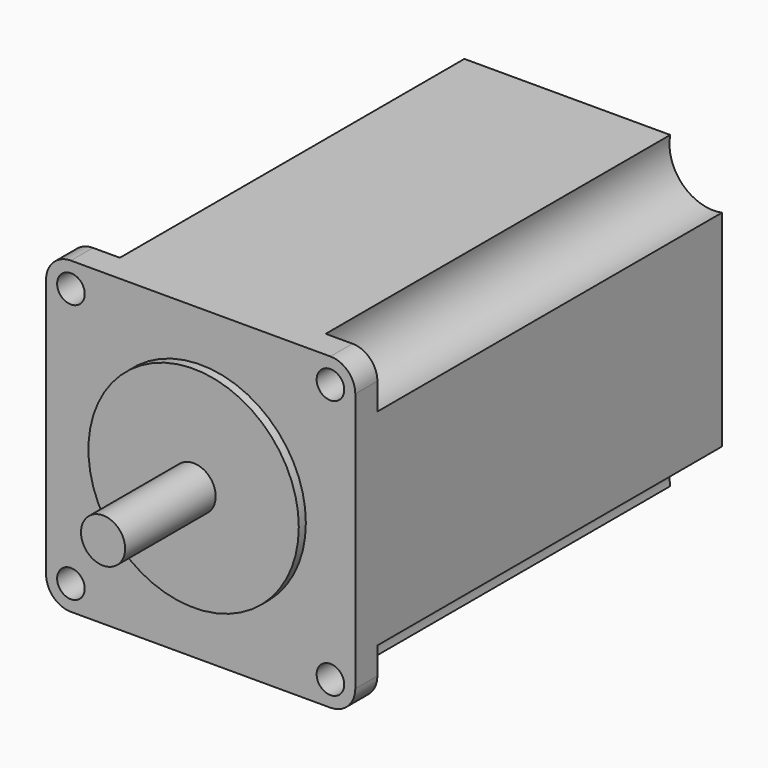
from build123d import *

# Parameters (mm, degrees)
SKETCH_R     = 2.5
PAD_DEPTH    = 5
SKETCH001_R  = 19.05
PAD001_DEPTH = 1.6
SKETCH002_R  = 4
PAD002_DEPTH = 20.5
PAD003_DEPTH = 78


with BuildPart() as part:
    # Sketch → Pad (new body)
    with BuildSketch(Plane.XZ):
        with BuildLine():
            Line((-28, 23.499995), (-28, -23.499995))
            ThreePointArc((-28, -23.499995), (-26.681977, -26.681984), (-23.499985, -28))
            Line((-23.499985, -28), (23.500005, -28))
            ThreePointArc((23.500005, -28), (26.681984, -26.681977), (28, -23.499995))
            Line((28, 23.499995), (28, -23.499995))
            ThreePointArc((28, 23.499995), (26.681981, 26.681981), (23.499995, 28))
            Line((-23.499995, 28), (23.499995, 28))
            ThreePointArc((-23.499995, 28), (-26.681981, 26.681981), (-28, 23.499995))
        make_face()
        with Locations((-23.5, 23.5)):
            Circle(SKETCH_R, mode=Mode.SUBTRACT)
        with Locations((23.5, 23.5)):
            Circle(SKETCH_R, mode=Mode.SUBTRACT)
        with Locations((-23.5, -23.5)):
            Circle(SKETCH_R, mode=Mode.SUBTRACT)
        with Locations((23.5, -23.5)):
            Circle(SKETCH_R, mode=Mode.SUBTRACT)
    extrude(amount=PAD_DEPTH)

    # Sketch001 (on Face14 of Pad) → Pad001 (join)
    with BuildSketch(Plane.XZ.offset(5)):
        Circle(SKETCH001_R)
    extrude(amount=PAD001_DEPTH)

    # Sketch002 (on Face16 of Pad001) → Pad002 (join)
    with BuildSketch(Plane.XZ.offset(6.6)):
        Circle(SKETCH002_R)
    extrude(amount=PAD002_DEPTH)

    # Sketch003 (on Face4 of Pad002) → Pad003 (join)
    with BuildSketch(Plane(origin=(0, 0, 0), x_dir=(1, 0, 0), z_dir=(0, 1, 0))):
        with BuildLine():
            Line((-18.641883, 28), (18.641883, 28))
            ThreePointArc((18.641883, 28), (20.843146, 20.843146), (28, 18.641883))
            Line((28, 18.641883), (28, -18.641883))
            ThreePointArc((28, -18.641883), (20.843146, -20.843146), (18.641883, -28))
            Line((-18.641883, -28), (18.641883, -28))
            ThreePointArc((-18.641883, -28), (-20.843146, -20.843146), (-28, -18.641883))
            Line((-28, -18.641883), (-28, 18.641883))
            ThreePointArc((-28, 18.641883), (-20.843146, 20.843146), (-18.641883, 28))
        make_face()
    extrude(amount=PAD003_DEPTH)


solid = part.part
